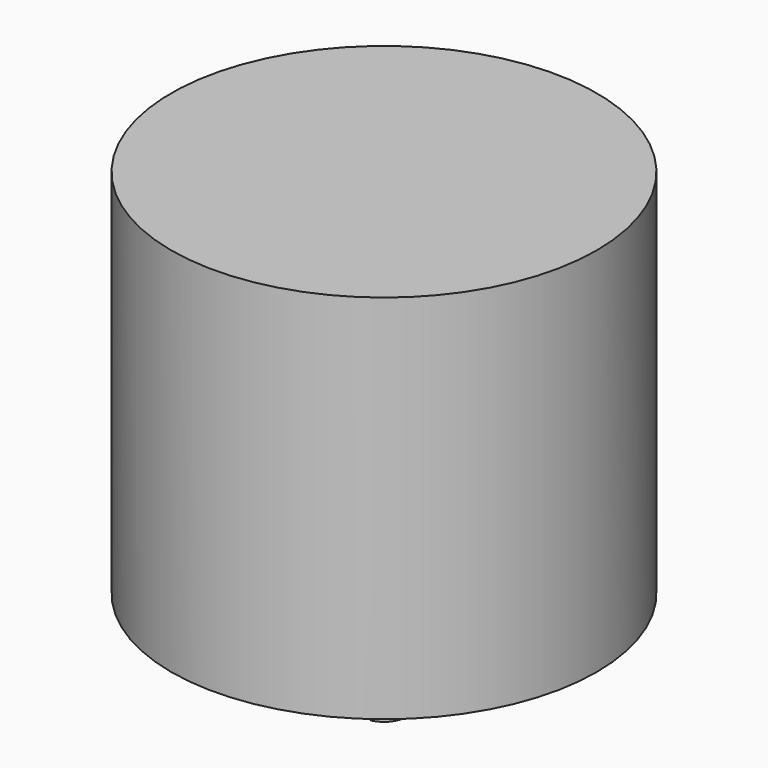
from build123d import *

# Parameters (mm, degrees)
F0_R     = 100.457
F1_DEPTH = 175.26
F2_DEPTH = 19.05
F4_DEPTH = 47.625


with BuildPart() as f1:
    # F0 (on Top) → F1 (new body)
    with BuildSketch(Plane.XY):
        Circle(F0_R)
        with BuildLine():
            ThreePointArc((4.7600731087, 74.4477794433), (52.7500244552, 52.7500244552), (74.4477794433, 4.7600731087))
            ThreePointArc((74.4477794433, 4.7600731087), (77.9132127685, 3.420921232), (79.3623, 0))
            ThreePointArc((79.3623, 0), (77.9132127685, -3.420921232), (74.4477794433, -4.7600731087))
            ThreePointArc((74.4477794433, -4.7600731087), (52.7500244552, -52.7500244552), (4.7600731087, -74.4477794433))
            ThreePointArc((4.7600731087, -74.4477794433), (4.7618932385, -74.5237800364), (4.7625, -74.5998))
            ThreePointArc((4.7625, -74.5998), (-0.0760199636, -79.3616932385), (-4.7600731087, -74.4477794433))
            ThreePointArc((-4.7600731087, -74.4477794433), (-52.7500244552, -52.7500244552), (-74.4477794433, -4.7600731087))
            ThreePointArc((-74.4477794433, -4.7600731087), (-79.3623, 0), (-74.4477794433, 4.7600731087))
            ThreePointArc((-74.4477794433, 4.7600731087), (-52.7500244552, 52.7500244552), (-4.7600731087, 74.4477794433))
            ThreePointArc((-4.7600731087, 74.4477794433), (-0.0760199636, 79.3616932385), (4.7625, 74.5998))
            ThreePointArc((4.7625, 74.5998), (4.7618932385, 74.5237800364), (4.7600731087, 74.4477794433))
        make_face(mode=Mode.SUBTRACT)
        with BuildLine():
            ThreePointArc((-74.4477794433, -4.7600731087), (-74.5998, 0), (-74.4477794433, 4.7600731087))
            ThreePointArc((-74.4477794433, 4.7600731087), (-79.3623, 0), (-74.4477794433, -4.7600731087))
        make_face()
        with BuildLine():
            ThreePointArc((-69.8373, 0), (-71.178878768, 3.3134127685), (-74.4477794433, 4.7600731087))
            ThreePointArc((-74.4477794433, 4.7600731087), (-74.5998, 0), (-74.4477794433, -4.7600731087))
            ThreePointArc((-74.4477794433, -4.7600731087), (-71.178878768, -3.3134127685), (-69.8373, 0))
        make_face()
        with BuildLine():
            ThreePointArc((-4.7600731087, 74.4477794433), (0, 74.5998), (4.7600731087, 74.4477794433))
            ThreePointArc((4.7600731087, 74.4477794433), (4.7618932385, 74.5237800364), (4.7625, 74.5998))
            ThreePointArc((4.7625, 74.5998), (-0.0760199636, 79.3616932385), (-4.7600731087, 74.4477794433))
        make_face()
        with BuildLine():
            ThreePointArc((-4.7600731087, 74.4477794433), (0, 69.8373), (4.7600731087, 74.4477794433))
            ThreePointArc((4.7600731087, 74.4477794433), (0, 74.5998), (-4.7600731087, 74.4477794433))
        make_face()
        with BuildLine():
            ThreePointArc((74.4477794433, -4.7600731087), (74.561785175, -2.38125), (74.5998, 0))
            ThreePointArc((74.5998, 0), (74.561785175, 2.38125), (74.4477794433, 4.7600731087))
            ThreePointArc((74.4477794433, 4.7600731087), (69.8373, 0), (74.4477794433, -4.7600731087))
        make_face()
        with BuildLine():
            ThreePointArc((74.4477794433, 4.7600731087), (74.561785175, 2.38125), (74.5998, 0))
            ThreePointArc((74.5998, 0), (74.561785175, -2.38125), (74.4477794433, -4.7600731087))
            ThreePointArc((74.4477794433, -4.7600731087), (77.9132127685, -3.420921232), (79.3623, 0))
            ThreePointArc((79.3623, 0), (77.9132127685, 3.420921232), (74.4477794433, 4.7600731087))
        make_face()
        with BuildLine():
            ThreePointArc((4.7625, -74.5998), (4.7618932385, -74.5237800364), (4.7600731087, -74.4477794433))
            ThreePointArc((4.7600731087, -74.4477794433), (0, -74.5998), (-4.7600731087, -74.4477794433))
            ThreePointArc((-4.7600731087, -74.4477794433), (-0.0760199636, -79.3616932385), (4.7625, -74.5998))
        make_face()
        with BuildLine():
            ThreePointArc((74.4477794433, -4.7600731087), (69.8373, 0), (74.4477794433, 4.7600731087))
            ThreePointArc((74.4477794433, 4.7600731087), (52.7500244552, 52.7500244552), (4.7600731087, 74.4477794433))
            ThreePointArc((4.7600731087, 74.4477794433), (0, 69.8373), (-4.7600731087, 74.4477794433))
            ThreePointArc((-4.7600731087, 74.4477794433), (-52.7500244552, 52.7500244552), (-74.4477794433, 4.7600731087))
            ThreePointArc((-74.4477794433, 4.7600731087), (-71.178878768, 3.3134127685), (-69.8373, 0))
            ThreePointArc((-69.8373, 0), (-71.178878768, -3.3134127685), (-74.4477794433, -4.7600731087))
            ThreePointArc((-74.4477794433, -4.7600731087), (-52.7500244552, -52.7500244552), (-4.7600731087, -74.4477794433))
            ThreePointArc((-4.7600731087, -74.4477794433), (0, -69.8373), (4.7600731087, -74.4477794433))
            ThreePointArc((4.7600731087, -74.4477794433), (52.7500244552, -52.7500244552), (74.4477794433, -4.7600731087))
        make_face()
        with BuildLine():
            ThreePointArc((-4.7600731087, -74.4477794433), (0, -74.5998), (4.7600731087, -74.4477794433))
            ThreePointArc((4.7600731087, -74.4477794433), (0, -69.8373), (-4.7600731087, -74.4477794433))
        make_face()
    extrude(amount=F1_DEPTH)

    # F0 (on Top) → F2 (cut)
    with BuildSketch(Plane.XY):
        with BuildLine():
            ThreePointArc((-69.8373, 0), (-71.178878768, 3.3134127685), (-74.4477794433, 4.7600731087))
            ThreePointArc((-74.4477794433, 4.7600731087), (-74.5998, 0), (-74.4477794433, -4.7600731087))
            ThreePointArc((-74.4477794433, -4.7600731087), (-71.178878768, -3.3134127685), (-69.8373, 0))
        make_face()
        with BuildLine():
            ThreePointArc((-74.4477794433, -4.7600731087), (-74.5998, 0), (-74.4477794433, 4.7600731087))
            ThreePointArc((-74.4477794433, 4.7600731087), (-79.3623, 0), (-74.4477794433, -4.7600731087))
        make_face()
        with BuildLine():
            ThreePointArc((-4.7600731087, 74.4477794433), (0, 69.8373), (4.7600731087, 74.4477794433))
            ThreePointArc((4.7600731087, 74.4477794433), (0, 74.5998), (-4.7600731087, 74.4477794433))
        make_face()
        with BuildLine():
            ThreePointArc((-4.7600731087, 74.4477794433), (0, 74.5998), (4.7600731087, 74.4477794433))
            ThreePointArc((4.7600731087, 74.4477794433), (4.7618932385, 74.5237800364), (4.7625, 74.5998))
            ThreePointArc((4.7625, 74.5998), (-0.0760199636, 79.3616932385), (-4.7600731087, 74.4477794433))
        make_face()
        with BuildLine():
            ThreePointArc((74.4477794433, -4.7600731087), (74.561785175, -2.38125), (74.5998, 0))
            ThreePointArc((74.5998, 0), (74.561785175, 2.38125), (74.4477794433, 4.7600731087))
            ThreePointArc((74.4477794433, 4.7600731087), (69.8373, 0), (74.4477794433, -4.7600731087))
        make_face()
        with BuildLine():
            ThreePointArc((74.4477794433, 4.7600731087), (74.561785175, 2.38125), (74.5998, 0))
            ThreePointArc((74.5998, 0), (74.561785175, -2.38125), (74.4477794433, -4.7600731087))
            ThreePointArc((74.4477794433, -4.7600731087), (77.9132127685, -3.420921232), (79.3623, 0))
            ThreePointArc((79.3623, 0), (77.9132127685, 3.420921232), (74.4477794433, 4.7600731087))
        make_face()
        with BuildLine():
            ThreePointArc((4.7625, -74.5998), (4.7618932385, -74.5237800364), (4.7600731087, -74.4477794433))
            ThreePointArc((4.7600731087, -74.4477794433), (0, -74.5998), (-4.7600731087, -74.4477794433))
            ThreePointArc((-4.7600731087, -74.4477794433), (-0.0760199636, -79.3616932385), (4.7625, -74.5998))
        make_face()
        with BuildLine():
            ThreePointArc((-4.7600731087, -74.4477794433), (0, -74.5998), (4.7600731087, -74.4477794433))
            ThreePointArc((4.7600731087, -74.4477794433), (0, -69.8373), (-4.7600731087, -74.4477794433))
        make_face()
    extrude(amount=F2_DEPTH, mode=Mode.SUBTRACT)

    # F3 (on face) → F4 (join)
    with BuildSketch(Plane.XY):
        with BuildLine():
            ThreePointArc((2.3876, -10.8529729793), (8.6608273638, -6.962594748), (11.1125, 0))
            ThreePointArc((11.1125, 0), (-6.962594748, 8.6608273638), (-2.3876, -10.8529729793))
            Line((-2.3876, -10.8529729793), (-2.3876, -8.4582))
            Line((-2.3876, -8.4582), (2.3876, -8.4582))
            Line((2.3876, -8.4582), (2.3876, -10.8529729793))
        make_face()
    extrude(amount=-F4_DEPTH)


solid = f1.part
